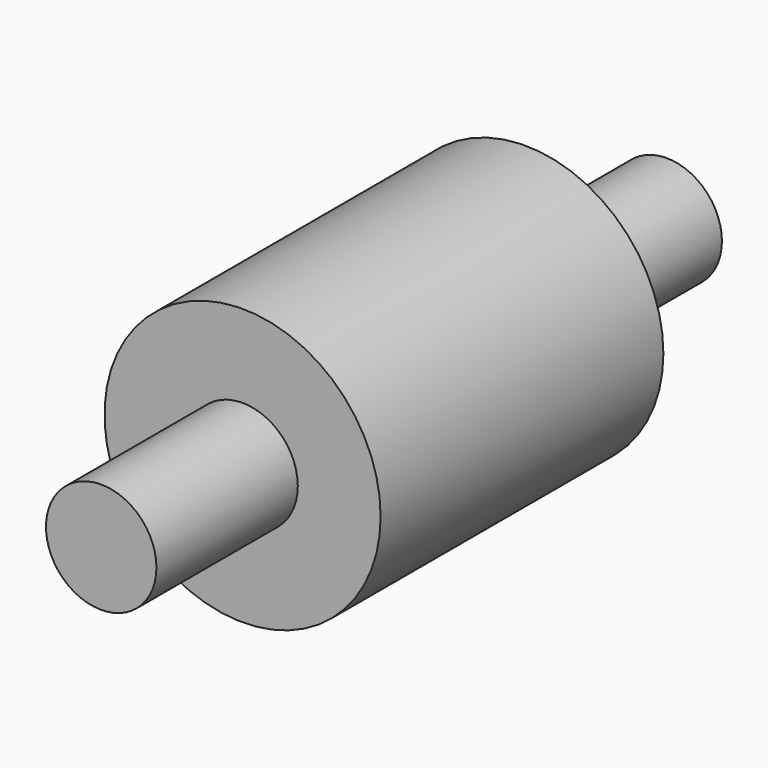
from build123d import *

# Parameters (mm, degrees)
F0_R     = 39.6875
F0_R_2   = 15.875
F1_DEPTH = 50.8
F2_DEPTH = 101.6


with BuildPart() as f1:
    # F0 (on Front) → F1 (new body, symmetric)
    with BuildSketch(Plane.XZ):
        Circle(F0_R)
        Circle(F0_R_2, mode=Mode.SUBTRACT)
        Circle(F0_R_2)
    extrude(amount=F1_DEPTH, both=True)


with BuildPart() as f2:
    # F0 (on Front) → F2 (new body, symmetric)
    with BuildSketch(Plane.XZ):
        Circle(F0_R_2)
    extrude(amount=F2_DEPTH, both=True)


solid = Compound([f1.part, f2.part])
